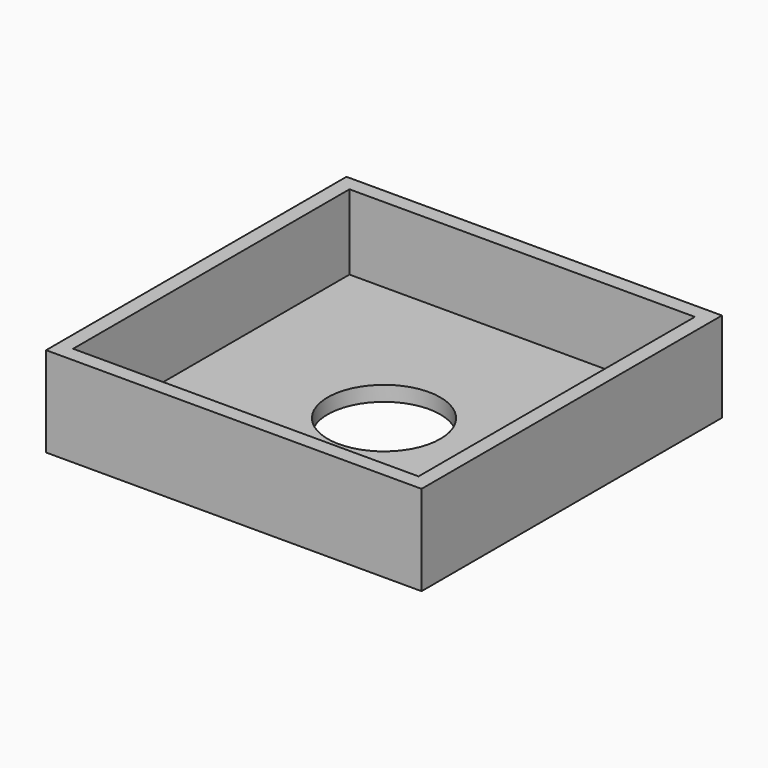
from build123d import *

# Parameters (mm, degrees)
F0_W     = 50
F0_H     = 50
F0_R     = 7.5
F2_DEPTH = 2
F1_W     = 50
F1_H     = 50
F1_W_2   = 46
F1_H_2   = 46
F3_DEPTH = 10


with BuildPart() as f2:
    # F0 (on Top) → F2 (new body)
    with BuildSketch(Plane.XY):
        Rectangle(F0_W, F0_H)
        Circle(F0_R, mode=Mode.SUBTRACT)
    extrude(amount=-F2_DEPTH)

    # F1 (on face) → F3 (join)
    with BuildSketch(Plane.XY):
        Rectangle(F1_W, F1_H)
        Rectangle(F1_W_2, F1_H_2, mode=Mode.SUBTRACT)
    extrude(amount=F3_DEPTH)


solid = f2.part
